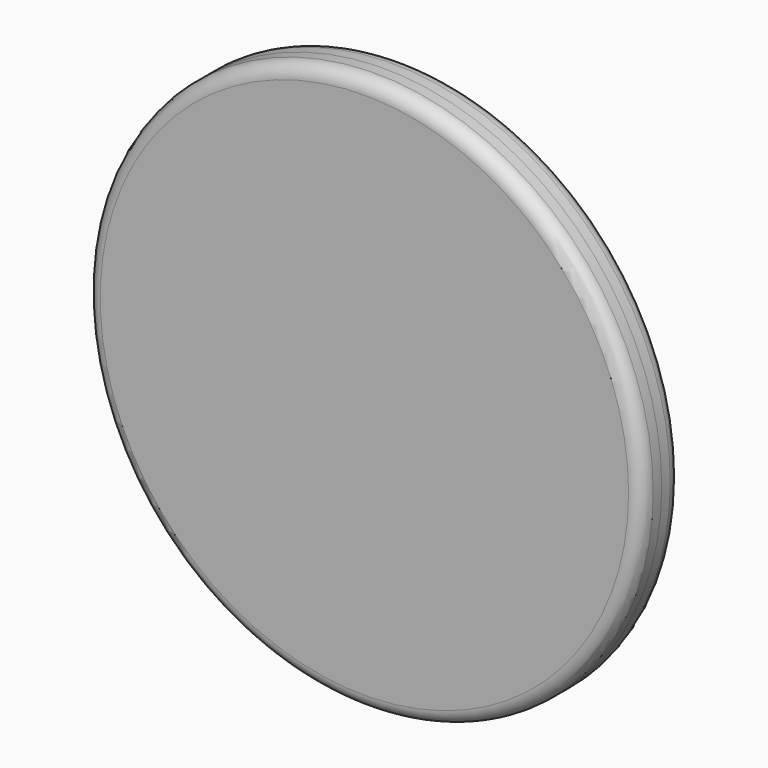
from build123d import *

# Parameters (mm, degrees)
F0_R     = 20.32
F0_R_2   = 17.78
F0_R_3   = 3.175
F1_DEPTH = 1.778
F2_DEPTH = 1.778
F3_R     = 1
F3_2_R   = 1
F4_R     = 0.5


with BuildPart() as f1:
    # F0 (on Front) → F1 (new body)
    with BuildSketch(Plane.XZ):
        Circle(F0_R)
        Circle(F0_R_2, mode=Mode.SUBTRACT)
        Circle(F0_R_2)
        with Locations((-8.7988181024, -5.08)):
            Circle(F0_R_3, mode=Mode.SUBTRACT)
        with Locations((8.7988181024, -5.08)):
            Circle(F0_R_3, mode=Mode.SUBTRACT)
        with Locations((0, 10.16)):
            Circle(F0_R_3, mode=Mode.SUBTRACT)
        with Locations((-8.7988181024, -5.08)):
            Circle(F0_R_3)
        with Locations((8.7988181024, -5.08)):
            Circle(F0_R_3)
        with Locations((0, 10.16)):
            Circle(F0_R_3)
    extrude(amount=F1_DEPTH)

    # F3
    f3_edges = [f1.edges().sort_by_distance(p)[0] for p in [
        (-20.32, -1.778, 0),
    ]]
    fillet(f3_edges, radius=F3_R)


with BuildPart() as f2:
    # F0 (on Front) → F2 (new body)
    with BuildSketch(Plane.XZ):
        Circle(F0_R)
        Circle(F0_R_2, mode=Mode.SUBTRACT)
        Circle(F0_R_2)
        with Locations((-8.7988181024, -5.08)):
            Circle(F0_R_3, mode=Mode.SUBTRACT)
        with Locations((8.7988181024, -5.08)):
            Circle(F0_R_3, mode=Mode.SUBTRACT)
        with Locations((0, 10.16)):
            Circle(F0_R_3, mode=Mode.SUBTRACT)
    extrude(amount=-F2_DEPTH)

    # F3#2
    f3_2_edges = [f2.edges().sort_by_distance(p)[0] for p in [
        (-20.32, 1.778, 0),
    ]]
    fillet(f3_2_edges, radius=F3_2_R)

    # F4
    f4_edges = [f2.edges().sort_by_distance(p)[0] for p in [
        (5.623818, 1.778, -5.08),
        (-11.973818, 1.778, -5.08),
        (-3.175, 1.778, 10.16),
    ]]
    fillet(f4_edges, radius=F4_R)


solid = Compound([f1.part, f2.part])
